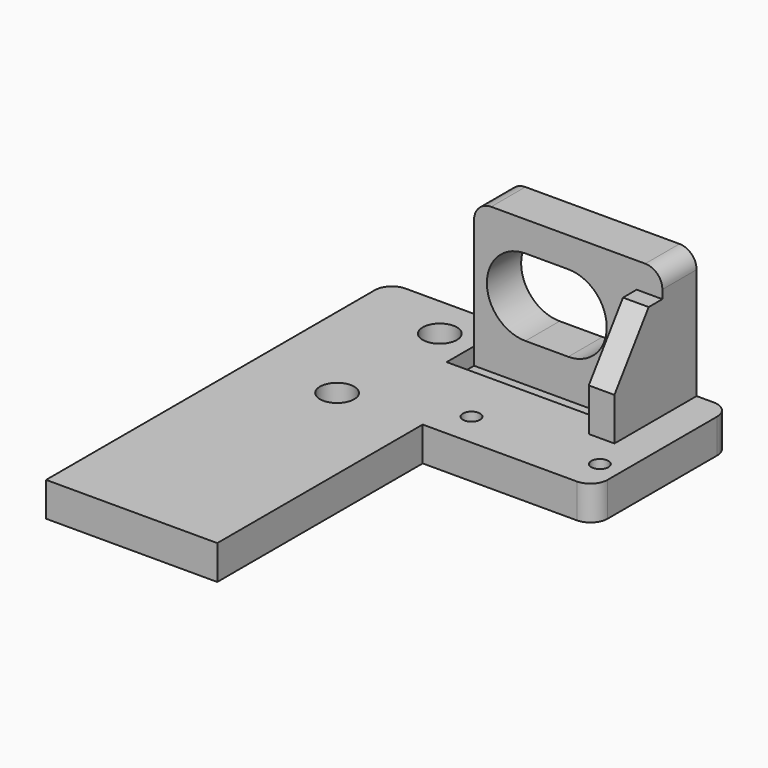
from build123d import *

# Parameters (mm, degrees)
PAD_DEPTH       = 4
SKETCH001_R     = 2
POCKET_DEPTH    = 4.001
SKETCH002_R     = 2
POCKET001_DEPTH = 4.001
SKETCH003_R     = 1
POCKET002_DEPTH = 4.001
SKETCH004_R     = 1
POCKET003_DEPTH = 4.001
SKETCH005_W     = 22
SKETCH005_H     = 5
PAD001_DEPTH    = 15
POCKET004_DEPTH = 50.001
FILLET_R        = 2
FILLET001_R     = 2
FILLET002_R     = 2
FILLET003_R     = 2
FILLET004_R     = 2
SKETCH007_W     = 17
SKETCH007_H     = 4
POCKET005_DEPTH = 2
PAD002_DEPTH    = 3


with BuildPart() as part:
    # Sketch → Pad (new body)
    with BuildSketch(Plane.XY):
        Polygon((-20, 20), (20, 20), (20, 0), (0, 0), (0, -30), (-20, -30), align=None)
    extrude(amount=PAD_DEPTH)

    # Sketch001 (on Face8 of Pad) → Pocket (cut, through all)
    with BuildSketch(Plane.XY.offset(4)):
        with Locations((-10, 15)):
            Circle(SKETCH001_R)
    extrude(amount=-POCKET_DEPTH, mode=Mode.SUBTRACT)

    # Sketch002 (on Face5 of Pocket) → Pocket001 (cut, through all)
    with BuildSketch(Plane.XY.offset(4)):
        with Locations((-10, 0)):
            Circle(SKETCH002_R)
    extrude(amount=-POCKET001_DEPTH, mode=Mode.SUBTRACT)

    # Sketch003 (on Face5 of Pocket001) → Pocket002 (cut, through all)
    with BuildSketch(Plane.XY.offset(4)):
        with Locations((2.5, 4)):
            Circle(SKETCH003_R)
    extrude(amount=-POCKET002_DEPTH, mode=Mode.SUBTRACT)

    # Sketch004 (on Face5 of Pocket002) → Pocket003 (cut, through all)
    with BuildSketch(Plane.XY.offset(4)):
        with Locations((17.5, 4)):
            Circle(SKETCH004_R)
    extrude(amount=-POCKET003_DEPTH, mode=Mode.SUBTRACT)

    # Sketch005 (on Face5 of Pocket003) → Pad001 (join)
    with BuildSketch(Plane.XY.offset(4)):
        with Locations((5, 17.5)):
            Rectangle(SKETCH005_W, SKETCH005_H)
    extrude(amount=PAD001_DEPTH)

    # Sketch006 (on Face6 of Pad001) → Pocket004 (cut, through all)
    with BuildSketch(Plane(origin=(0, 20, 0), x_dir=(-1, 0, 0), z_dir=(0, 1, 0))):
        with BuildLine():
            ThreePointArc((-5, 15.5), (-9.5, 11), (-5, 6.5))
            Line((-5, 6.5), (0, 6.5))
            ThreePointArc((0, 6.5), (4.5, 11), (0, 15.5))
            Line((-5, 15.5), (0, 15.5))
        make_face()
    extrude(amount=-POCKET004_DEPTH, mode=Mode.SUBTRACT)

    # Fillet
    fillet_edges = [part.edges().sort_by_distance(p)[0] for p in [
        (20, 0, 2),
    ]]
    fillet(fillet_edges, radius=FILLET_R)

    # Fillet001
    fillet001_edges = [part.edges().sort_by_distance(p)[0] for p in [
        (20, 20, 2),
    ]]
    fillet(fillet001_edges, radius=FILLET001_R)

    # Fillet002
    fillet002_edges = [part.edges().sort_by_distance(p)[0] for p in [
        (-20, 20, 2),
    ]]
    fillet(fillet002_edges, radius=FILLET002_R)

    # Fillet003
    fillet003_edges = [part.edges().sort_by_distance(p)[0] for p in [
        (-6, 17.5, 19),
    ]]
    fillet(fillet003_edges, radius=FILLET003_R)

    # Fillet004
    fillet004_edges = [part.edges().sort_by_distance(p)[0] for p in [
        (16, 17.5, 19),
    ]]
    fillet(fillet004_edges, radius=FILLET004_R)

    # Sketch007 (on Face13 of Fillet004) → Pocket005 (cut)
    with BuildSketch(Plane.XY.offset(4)):
        with Locations((2.5, 13)):
            Rectangle(SKETCH007_W, SKETCH007_H)
    extrude(amount=-POCKET005_DEPTH, mode=Mode.SUBTRACT)

    # Sketch008 (on Face5 of Pocket005) → Pad002 (join)
    with BuildSketch(Plane.YZ.offset(16)):
        Polygon((15, 4), (8, 4), (8, 9), (13, 16), (15, 16), align=None)
    extrude(amount=-PAD002_DEPTH)


solid = part.part
